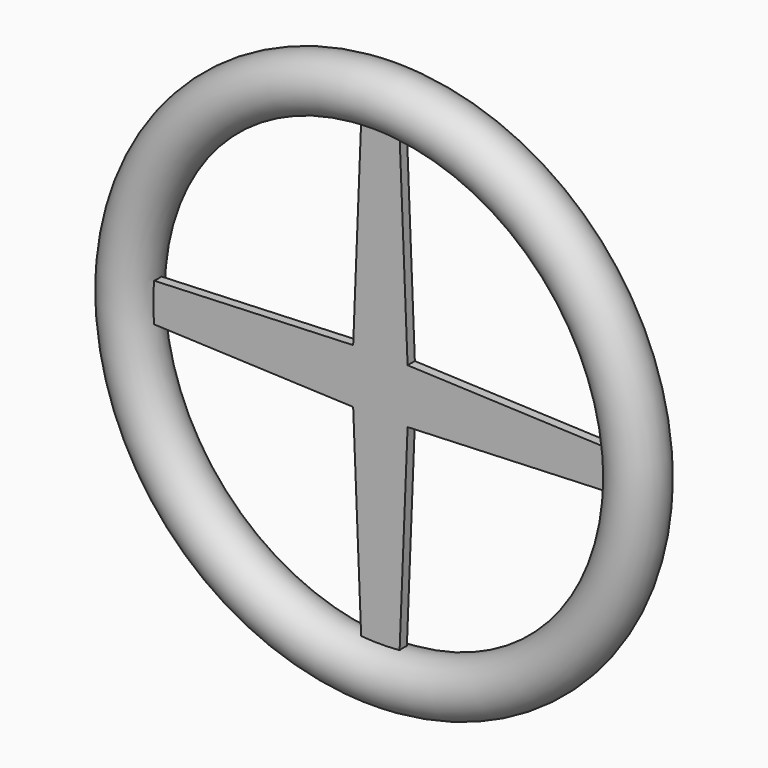
from build123d import *

# Parameters (mm, degrees)
F1_R     = 19.05
F3_DEPTH = 3.175


with BuildPart() as f2:
    # F1 (on Right) → F2 (revolve)
    with BuildSketch(Plane.YZ):
        with Locations((0, 177.8004914522)):
            Circle(F1_R)
    revolve(axis=Axis((0, 0, 0), (0, -1, 0)))

    # F0 (on Front) → F3 (join, symmetric)
    with BuildSketch(Plane.XZ):
        with BuildLine():
            Line((-19.05, -19.05), (-19.05, 19.05))
            Line((-19.05, 19.05), (-177.3458485559, 12.7))
            Line((-177.3458485559, 12.7), (-165.1, 12.7))
            Line((-165.1, 12.7), (-165.1, -12.7))
            Line((-165.1, -12.7), (-177.3458485559, -12.7))
            ThreePointArc((-177.3458485559, -12.7), (-177.3451960004, -12.7091091572), (-177.3445429771, -12.7182182809))
            Line((-177.3445429771, -12.7182182809), (-19.05, -19.05))
        make_face()
        with BuildLine():
            Line((165.1, 12.7), (177.3458485559, 12.7))
            Line((177.3458485559, 12.7), (19.05, 19.05))
            Line((19.05, 19.05), (12.7182182809, 177.3445429771))
            ThreePointArc((12.7182182809, 177.3445429771), (12.7091091572, 177.3451960004), (12.7, 177.3458485559))
            Line((12.7, 177.3458485559), (12.7, 165.1))
            Line((12.7, 165.1), (-12.7, 165.1))
            Line((-12.7, 165.1), (-12.7, 177.3458485559))
            ThreePointArc((-12.7, 177.3458485559), (-12.7091091572, 177.3451960004), (-12.7182182809, 177.3445429771))
            Line((-12.7182182809, 177.3445429771), (-19.05, 19.05))
            Line((-19.05, 19.05), (-19.05, -19.05))
            Line((-19.05, -19.05), (-12.7, -177.3458485559))
            Line((-12.7, -177.3458485559), (-12.7, -165.1))
            Line((-12.7, -165.1), (12.7, -165.1))
            Line((12.7, -165.1), (12.7, -177.3458485559))
            ThreePointArc((12.7, -177.3458485559), (12.7091091572, -177.3451960004), (12.7182182809, -177.3445429771))
            Line((12.7182182809, -177.3445429771), (19.05, -19.05))
            Line((19.05, -19.05), (177.3445429771, -12.7182182809))
            ThreePointArc((177.3445429771, -12.7182182809), (177.3451960004, -12.7091091572), (177.3458485559, -12.7))
            Line((177.3458485559, -12.7), (165.1, -12.7))
            Line((165.1, -12.7), (165.1, 12.7))
        make_face()
    extrude(amount=F3_DEPTH, both=True)


solid = f2.part
